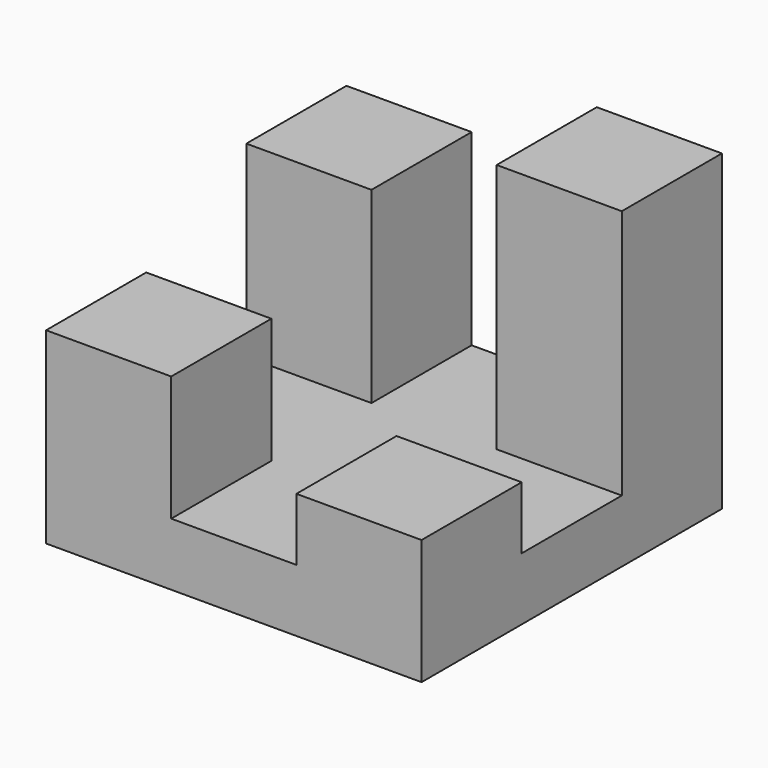
from build123d import *

# Parameters (mm, degrees)
F0_W     = 76.2
F0_H     = 12.7
F1_DEPTH = 76.2
F2_W     = 25.4
F2_H     = 25.4
F3_DEPTH = 50.8
F4_W     = 25.4
F4_H     = 25.4
F5_DEPTH = 38.1
F6_W     = 25.4
F6_H     = 25.4
F7_DEPTH = 25.4
F8_W     = 25.4
F8_H     = 25.4
F9_DEPTH = 12.7


with BuildPart() as f1:
    # F0 (on Front) → F1 (new body)
    with BuildSketch(Plane.XZ):
        with Locations((8.174201, -33.19545)):
            Rectangle(F0_W, F0_H)
    extrude(amount=F1_DEPTH)

    # F2 (on face) → F3 (join)
    with BuildSketch(Plane.XY.offset(-26.84545)):
        with Locations((33.574201, -12.7)):
            Rectangle(F2_W, F2_H)
    extrude(amount=F3_DEPTH)

    # F4 (on face) → F5 (join)
    with BuildSketch(Plane.XY.offset(-26.84545)):
        with Locations((-17.225799, -12.7)):
            Rectangle(F4_W, F4_H)
    extrude(amount=F5_DEPTH)

    # F6 (on face) → F7 (join)
    with BuildSketch(Plane.XY.offset(-26.84545)):
        with Locations((-17.225799, -63.5)):
            Rectangle(F6_W, F6_H)
    extrude(amount=F7_DEPTH)

    # F8 (on face) → F9 (join)
    with BuildSketch(Plane.XY.offset(-26.84545)):
        with Locations((33.574201, -63.5)):
            Rectangle(F8_W, F8_H)
    extrude(amount=F9_DEPTH)


solid = f1.part
